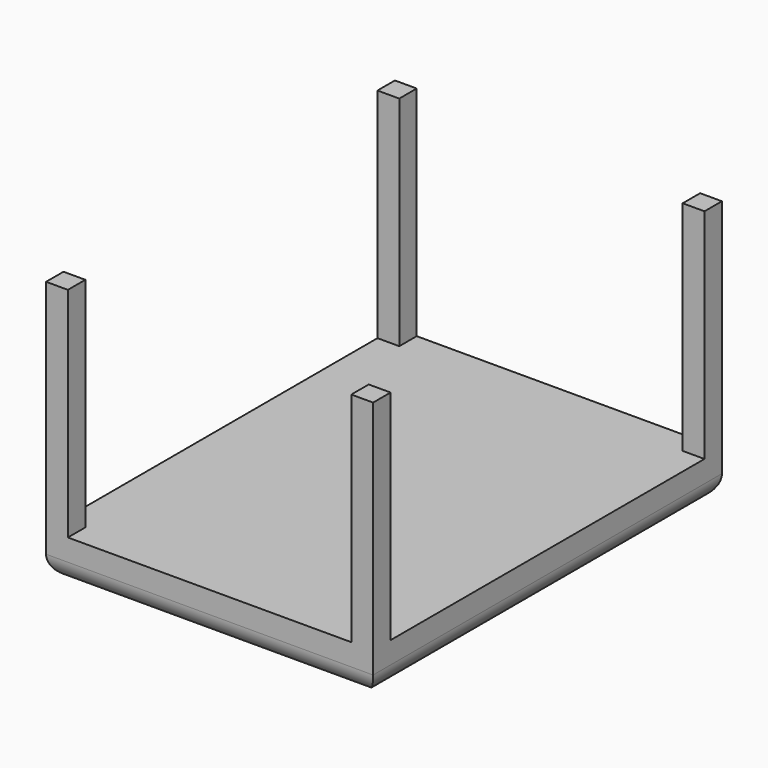
from build123d import *

# Parameters (mm, degrees)
F0_W     = 76.2
F0_H     = 101.6
F1_DEPTH = 10.16
F2_W     = 5.08
F2_H     = 5.08
F3_DEPTH = 50.8
F4_R     = 5.08


with BuildPart() as f1:
    # F0 (on Top) → F1 (new body)
    with BuildSketch(Plane.XY):
        Rectangle(F0_W, F0_H)
    extrude(amount=F1_DEPTH)

    # F2 (on face) → F3 (join)
    with BuildSketch(Plane.XY.offset(10.16)):
        with Locations((35.56, 48.26)):
            Rectangle(F2_W, F2_H)
        with Locations((35.56, -48.26)):
            Rectangle(F2_W, F2_H)
        with Locations((-35.56, 48.26)):
            Rectangle(F2_W, F2_H)
        with Locations((-35.56, -48.26)):
            Rectangle(F2_W, F2_H)
    extrude(amount=F3_DEPTH)

    # F4
    f4_edges = [f1.edges().sort_by_distance(p)[0] for p in [
        (0, 50.8, 0),
        (38.1, 0, 0),
        (0, -50.8, 0),
        (-38.1, 0, 0),
    ]]
    fillet(f4_edges, radius=F4_R)


solid = f1.part
